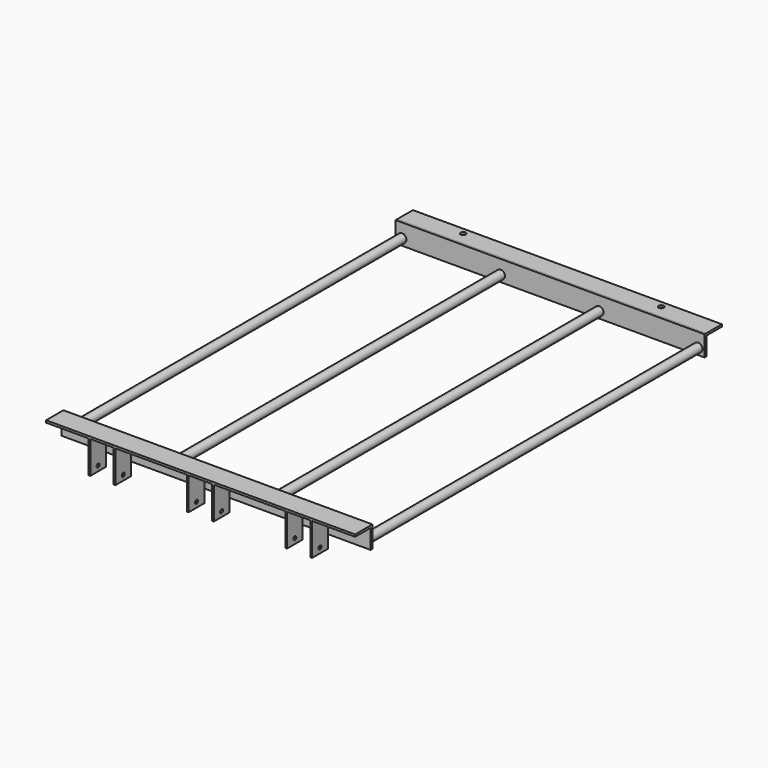
from build123d import *

# Parameters (mm, degrees)
F1_DEPTH  = 713
F2_R      = 10
F3_DEPTH  = 958
F4_W      = 713
F4_H      = 47.306779
F4_R      = 10
F5_DEPTH  = 5
F6_W      = 713
F6_H      = 5
F7_DEPTH  = 45
F10_W     = 4
F10_H     = 45
F11_DEPTH = 75
F13_D     = 8.5
F15_D     = 12


with BuildPart() as f1:
    # F0 (on Right) → F1 (new body)
    with BuildSketch(Plane.YZ):
        Polygon((17.470203, 45), (-32.529797, 45), (-32.529797, 40), (12.470203, 40), (12.470203, -5), (17.470203, -5), align=None)
    extrude(amount=-F1_DEPTH)

    # F2 (on face) → F3 (join)
    with BuildSketch(Plane(origin=(0, 17.470203, 0), x_dir=(-1, 0, 0), z_dir=(0, 1, 0))):
        with Locations((698, 10)):
            Circle(F2_R)
        with Locations((470.5, 10)):
            Circle(F2_R)
        with Locations((243, 10)):
            Circle(F2_R)
        with Locations((15, 10)):
            Circle(F2_R)
    extrude(amount=F3_DEPTH)

    # F10 (on face) → F11 (join)
    with BuildSketch(Plane(origin=(0, 0, 40), x_dir=(1, 0, 0), z_dir=(0, 0, -1))):
        with Locations((-613, 10.029797)):
            Rectangle(F10_W, F10_H)
        with Locations((-555, 10.029797)):
            Rectangle(F10_W, F10_H)
        with Locations((-386, 10.029797)):
            Rectangle(F10_W, F10_H)
        with Locations((-328, 10.029797)):
            Rectangle(F10_W, F10_H)
        with Locations((-159, 10.029797)):
            Rectangle(F10_W, F10_H)
        with Locations((-101, 10.029797)):
            Rectangle(F10_W, F10_H)
    extrude(amount=F11_DEPTH)

    # F13 (through all)
    with Locations(Plane(origin=(-615, 0, 0), x_dir=(0, -1, 0), z_dir=(-1, 0, 0))):
        with Locations((10.029797, -23)):
            Hole(F13_D / 2)


with BuildPart() as f5:
    # F4 (on face) → F5 (new body)
    with BuildSketch(Plane(origin=(0, 975.470203, 0), x_dir=(-1, 0, 0), z_dir=(0, 1, 0))):
        with Locations((356.5, 18.119799)):
            Rectangle(F4_W, F4_H)
        with Locations((15, 10)):
            Circle(F4_R, mode=Mode.SUBTRACT)
    extrude(amount=F5_DEPTH)

    # F6 (on face) → F7 (join)
    with BuildSketch(Plane(origin=(0, 980.470203, 0), x_dir=(-1, 0, 0), z_dir=(0, 1, 0))):
        with Locations((356.5, 39.273189)):
            Rectangle(F6_W, F6_H)
    extrude(amount=F7_DEPTH)

    # F15 (through all)
    with Locations(Plane.XY.offset(41.773189)):
        with Locations((-585, 1010.470203), (-128, 1010.470203)):
            Hole(F15_D / 2)


solid = Compound([f1.part, f5.part])
